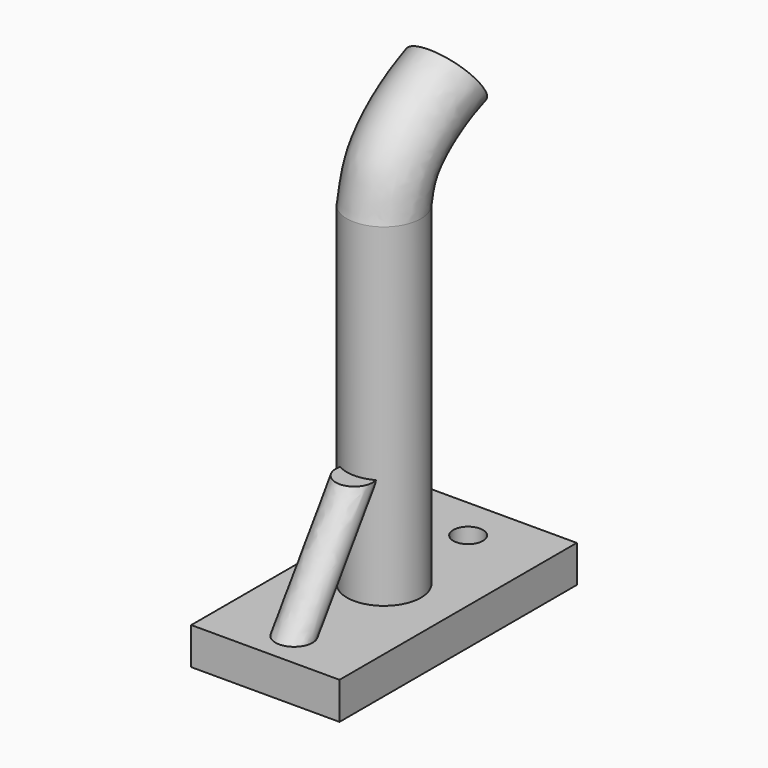
from build123d import *

# Parameters (mm, degrees)
F0_W      = 25.4
F0_H      = 50.8
F0_R      = 3.175
F0_R_2    = 6.35
F0_R_3    = 2.54
F1_DEPTH  = 6.35
F2_DEPTH  = 63.5
F4_DEPTH  = 6.35
F2_FACE_R = 6.35
F6_R      = 3.175


with BuildPart() as f1:
    # F0 (on Top) → F1 (new body)
    with BuildSketch(Plane.XY):
        Rectangle(F0_W, F0_H)
        with Locations((0, -19.2597191781)):
            Circle(F0_R, mode=Mode.SUBTRACT)
        Circle(F0_R_2, mode=Mode.SUBTRACT)
        with Locations((0, 18.014030531)):
            Circle(F0_R_3, mode=Mode.SUBTRACT)
    extrude(amount=F1_DEPTH)

    # F0 (on Top) → F2 (join)
    with BuildSketch(Plane.XY):
        Circle(F0_R_2)
    extrude(amount=F2_DEPTH)

    # F0 (on Top) → F4 (join, through all)
    with BuildSketch(Plane.XY):
        with Locations((0, -19.2597191781)):
            Circle(F0_R)
    extrude(amount=F4_DEPTH)

    # F5: sweep along a path in F3
    with BuildLine(Plane.YZ) as f5_path:
        add(Plane.YZ * Edge.make_bspline(
            [(0, 63.5), (0.3497077138, 64.9335091592), (1.0344697619, 70.7236922928), (8.5873221979, 75.9309157729), (13.3415265009, 77.8324604034)],
            knots=[0, 0, 0, 0, 0.400987996, 1, 1, 1, 1], degree=3))
    # F2_face (on face) → F5 (sweep)
    with BuildSketch(Plane.XY.offset(63.5)):
        Circle(F2_FACE_R)
    sweep(path=f5_path.line)

    # F7: sweep along a path in F3
    with BuildLine(Plane.YZ) as f7_path:
        Line((-19.2597191781, 6.35), (-6.35, 25.267848745))
    # F6 (on face) → F7 (sweep)
    with BuildSketch(Plane.XY.offset(6.35)):
        with Locations((0, -19.2597191781)):
            Circle(F6_R)
    sweep(path=f7_path.line)


solid = f1.part
